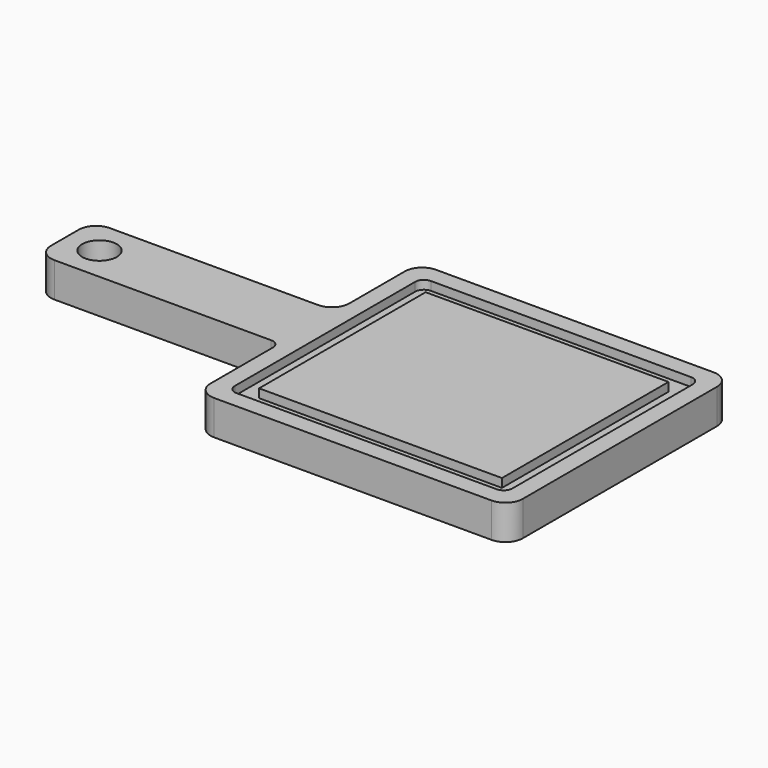
from build123d import *

# Parameters (mm, degrees)
F0_W     = 177.8
F0_H     = 50.8
F1_DEPTH = 25.4
F2_R     = 12.7
F3_DEPTH = 25.4
F5_DEPTH = 6.35
F6_R     = 6.35
F7_R     = 12.7
F8_R     = 6.35


with BuildPart() as f1:
    # F0 (on Top) → F1 (new body)
    with BuildSketch(Plane.XY):
        with Locations((-88.9, 101.6)):
            Rectangle(F0_W, F0_H)
        Polygon((0, 76.2), (0, 0), (228.6, 0), (228.6, 203.2), (0, 203.2), (0, 127), align=None)
    extrude(amount=F1_DEPTH)

    # F2 (on face) → F3 (cut)
    with BuildSketch(Plane.XY.offset(25.4)):
        with Locations((-152.4, 101.6)):
            Circle(F2_R)
    extrude(amount=-F3_DEPTH, mode=Mode.SUBTRACT)

    # F4 (on face) → F5 (cut)
    with BuildSketch(Plane.XY.offset(25.4)):
        Polygon((12.699994, 76.2), (12.699994, 12.699994), (215.900006, 12.699994), (215.900006, 190.500006), (12.699994, 190.500006), (12.699994, 127), align=None)
        Polygon((25.399994, 76.2), (25.399994, 127), (25.399994, 177.800006), (203.200006, 177.800006), (203.200006, 25.399994), (25.399994, 25.399994), align=None, mode=Mode.SUBTRACT)
    extrude(amount=-F5_DEPTH, mode=Mode.SUBTRACT)

    # F6
    f6_edges = [f1.edges().sort_by_distance(p)[0] for p in [
        (12.699994, 190.500006, 22.225),
        (215.900006, 190.500006, 22.225),
        (12.699994, 12.699994, 22.225),
        (215.900006, 12.699994, 22.225),
    ]]
    fillet(f6_edges, radius=F6_R)

    # F7
    f7_edges = [f1.edges().sort_by_distance(p)[0] for p in [
        (0, 203.2, 12.7),
        (0, 127, 12.7),
        (-177.8, 127, 12.7),
        (-177.8, 76.2, 12.7),
        (228.6, 203.2, 12.7),
        (228.6, 0, 12.7),
        (0, 0, 12.7),
    ]]
    fillet(f7_edges, radius=F7_R)

    # F8
    f8_edges = [f1.edges().sort_by_distance(p)[0] for p in [
        (0, 76.2, 12.7),
    ]]
    fillet(f8_edges, radius=F8_R)


solid = f1.part
